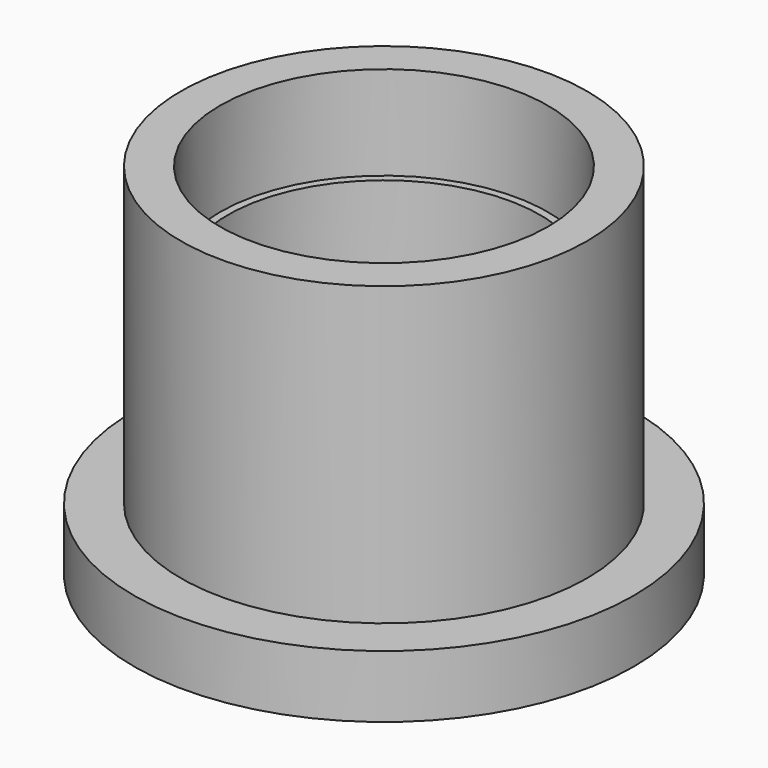
from build123d import *

# Parameters (mm, degrees)
F0_R     = 8
F0_R_2   = 3.5
F1_DEPTH = 2
F2_R     = 6.5
F2_R_2   = 4.75
F3_DEPTH = 3.5
F4_R     = 6.5
F4_R_2   = 5
F5_DEPTH = 3
F6_R     = 6.5
F6_R_2   = 5.25
F7_DEPTH = 3


with BuildPart() as f1:
    # F0 (on Top) → F1 (new body)
    with BuildSketch(Plane.XY):
        Circle(F0_R)
        Circle(F0_R_2, mode=Mode.SUBTRACT)
    extrude(amount=F1_DEPTH)

    # F2 (on face) → F3 (join)
    with BuildSketch(Plane.XY.offset(2)):
        Circle(F2_R)
        Circle(F2_R_2, mode=Mode.SUBTRACT)
    extrude(amount=F3_DEPTH)

    # F4 (on face) → F5 (join)
    with BuildSketch(Plane.XY.offset(5.5)):
        Circle(F4_R)
        Circle(F4_R_2, mode=Mode.SUBTRACT)
    extrude(amount=F5_DEPTH)

    # F6 (on face) → F7 (join)
    with BuildSketch(Plane.XY.offset(8.5)):
        Circle(F6_R)
        Circle(F6_R_2, mode=Mode.SUBTRACT)
    extrude(amount=F7_DEPTH)


solid = f1.part
